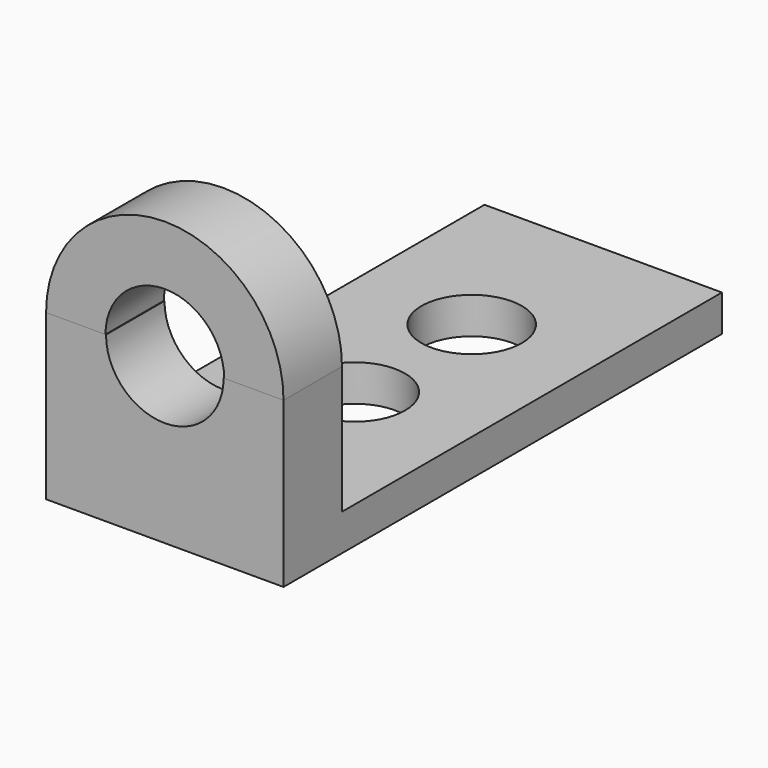
from build123d import *

# Parameters (mm, degrees)
F1_DEPTH  = 82.55
F2_R      = 17.4625
F3_DEPTH  = 12.701
F4_W      = 82.55
F4_H      = 44.45
F5_DEPTH  = 25.401
F7_DEPTH  = 25.4
F8_R      = 20.6375
F9_DEPTH  = 190.501
F10_R     = 20.4344731727
F11_DEPTH = 25.4


with BuildPart() as f1:
    # F0 (on Right) → F1 (new body)
    with BuildSketch(Plane.YZ):
        Polygon((-190.5, 0), (0, 0), (0, 12.7), (-165.1, 12.7), (-165.1, 101.6), (-190.5, 101.6), align=None)
    extrude(amount=F1_DEPTH)

    # F2 (on face) → F3 (cut, through all)
    with BuildSketch(Plane.XY.offset(12.7)):
        with Locations((41.275, -57.15)):
            Circle(F2_R)
        with Locations((41.275, -107.95)):
            Circle(F2_R)
    extrude(amount=-F3_DEPTH, mode=Mode.SUBTRACT)

    # F4 (on face) → F5 (cut, through all)
    with BuildSketch(Plane(origin=(0, -165.1, 0), x_dir=(-1, 0, 0), z_dir=(0, 1, 0))):
        with Locations((-41.275, 79.375)):
            Rectangle(F4_W, F4_H)
    extrude(amount=-F5_DEPTH, mode=Mode.SUBTRACT)

    # F10 (on face) → F11 (cut)
    with BuildSketch(Plane.XZ.offset(190.5)):
        with Locations((41.275, 57.15)):
            Circle(F10_R)
    extrude(amount=-F11_DEPTH, mode=Mode.SUBTRACT)


with BuildPart() as f7:
    # F6 (on face) → F7 (new body)
    with BuildSketch(Plane(origin=(0, -165.1, 0), x_dir=(-1, 0, 0), z_dir=(0, 1, 0))):
        with BuildLine():
            Line((-82.55, 57.15), (0, 57.15))
            ThreePointArc((0, 57.15), (-41.275, 98.425), (-82.55, 57.15))
        make_face()
    extrude(amount=-F7_DEPTH)

    # F8 (on face) → F9 (cut, through all)
    with BuildSketch(Plane.XZ.offset(190.5)):
        with Locations((41.275, 57.15)):
            Circle(F8_R)
    extrude(amount=-F9_DEPTH, mode=Mode.SUBTRACT)


solid = Compound([f1.part, f7.part])
